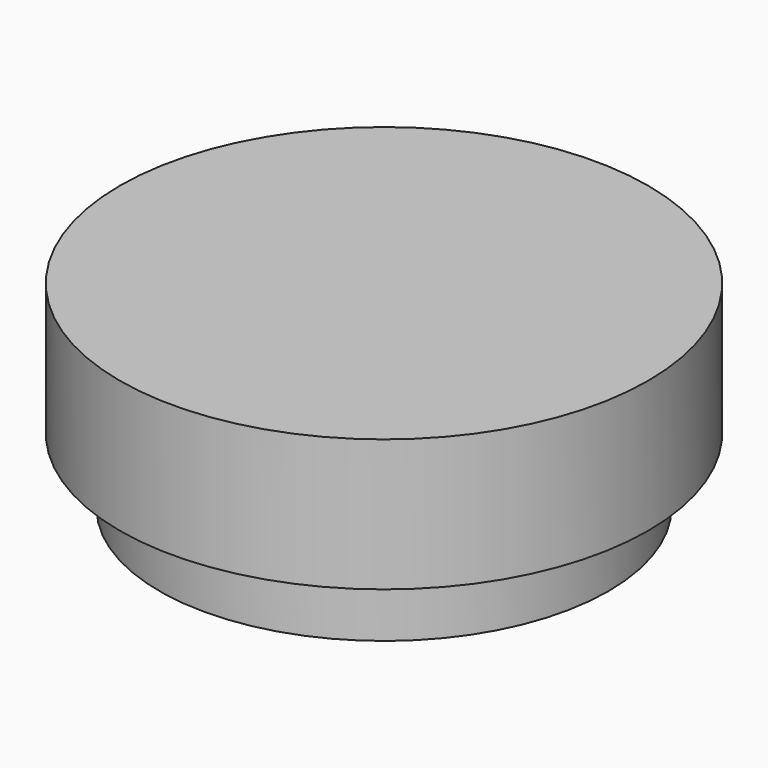
from build123d import *

# Parameters (mm, degrees)
F0_R     = 50.8
F1_DEPTH = 25.4
F2_R     = 43.18
F2_R_2   = 40.64
F3_DEPTH = 12.7


with BuildPart() as f1:
    # F0 (on Top) → F1 (new body)
    with BuildSketch(Plane.XY):
        Circle(F0_R)
    extrude(amount=F1_DEPTH)

    # F2 (on face) → F3 (join)
    with BuildSketch(Plane(origin=(0, 0, 0), x_dir=(1, 0, 0), z_dir=(0, 0, -1))):
        Circle(F2_R)
        Circle(F2_R_2, mode=Mode.SUBTRACT)
    extrude(amount=F3_DEPTH)


solid = f1.part
